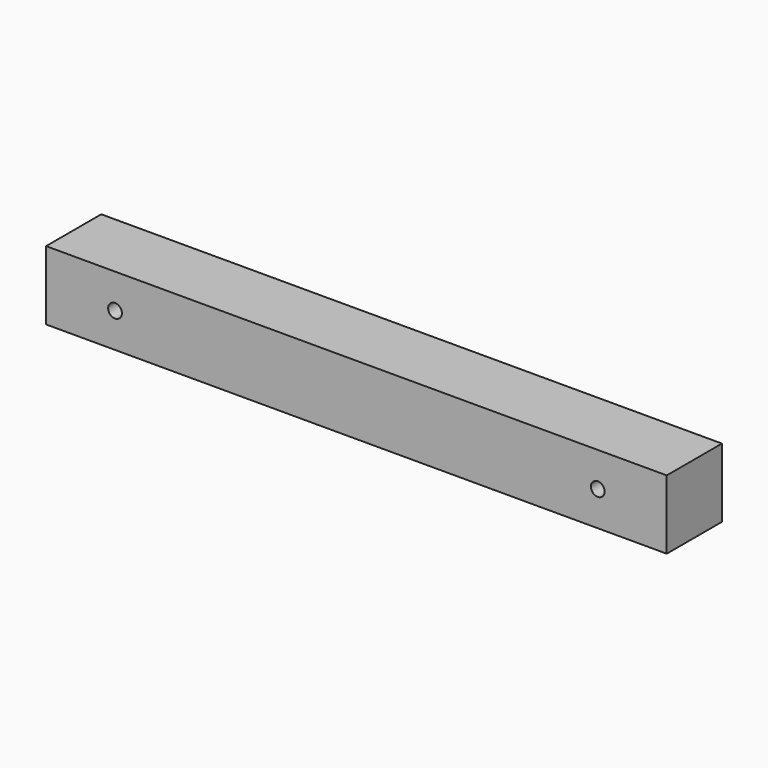
from build123d import *

# Parameters (mm, degrees)
F0_W     = 228.6
F0_H     = 25.4
F0_R     = 3.81
F0_R_2   = 2.54
F1_DEPTH = 12.7


with BuildPart() as f1:
    # F0 (on Front) → F1 (new body, symmetric)
    with BuildSketch(Plane.XZ):
        Rectangle(F0_W, F0_H)
        with Locations((-88.9, 0)):
            Circle(F0_R, mode=Mode.SUBTRACT)
        with Locations((88.9, 0)):
            Circle(F0_R, mode=Mode.SUBTRACT)
        with Locations((88.9, 0)):
            Circle(F0_R)
        with Locations((88.9, 0)):
            Circle(F0_R_2, mode=Mode.SUBTRACT)
        with Locations((-88.9, 0)):
            Circle(F0_R)
        with Locations((-88.9, 0)):
            Circle(F0_R_2, mode=Mode.SUBTRACT)
    extrude(amount=F1_DEPTH, both=True)


solid = f1.part
